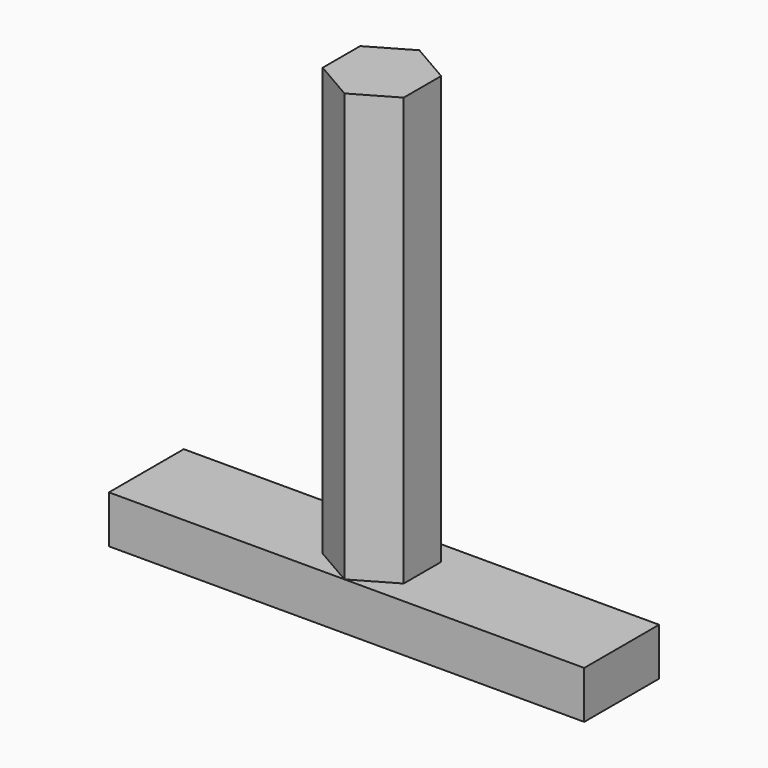
from build123d import *

# Parameters (mm, degrees)
F1_DEPTH = 25.4
F2_DEPTH = 2.54


with BuildPart() as f1:
    # F0 (on Top) → F1 (new body)
    with BuildSketch(Plane.XY):
        Polygon((-47.368809, 30.040314), (-49.533872, 31.290314), (-51.698936, 30.040314), (-51.698936, 27.540314), (-49.533872, 26.290314), (-47.368809, 27.540314), align=None)
    extrude(amount=F1_DEPTH)

    # F0 (on Top) → F2 (join)
    with BuildSketch(Plane.XY):
        Polygon((-49.533872, 31.290314), (-62.122734, 31.290314), (-62.122734, 26.290314), (-49.533872, 26.290314), (-51.698936, 27.540314), (-51.698936, 30.040314), align=None)
        Polygon((-36.722734, 31.290314), (-49.533872, 31.290314), (-47.368809, 30.040314), (-47.368809, 27.540314), (-49.533872, 26.290314), (-36.722734, 26.290314), align=None)
    extrude(amount=F2_DEPTH)


solid = f1.part
